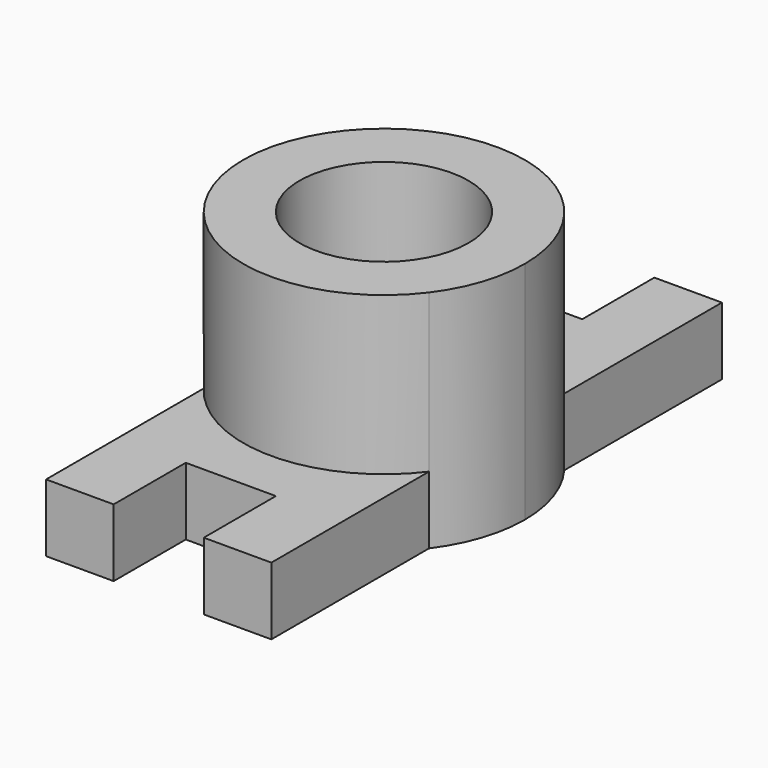
from build123d import *

# Parameters (mm, degrees)
F0_R     = 15
F1_DEPTH = 40
F2_DEPTH = 12


with BuildPart() as f1:
    # F0 (on Top) → F1 (new body)
    with BuildSketch(Plane.XY):
        with BuildLine():
            ThreePointArc((-23.643522, 45.745022), (-28.643522, 30.745022), (-23.643522, 15.745022))
            ThreePointArc((-23.643522, 15.745022), (-3.643522, 5.745022), (16.356478, 15.745022))
            ThreePointArc((16.356478, 15.745022), (20.07356, 22.839328), (21.356478, 30.745022))
            ThreePointArc((21.356478, 30.745022), (20.07356, 38.650717), (16.356478, 45.745022))
            ThreePointArc((16.356478, 45.745022), (-3.643522, 55.745022), (-23.643522, 45.745022))
        make_face()
        with Locations((-3.643522, 30.745022)):
            Circle(F0_R, mode=Mode.SUBTRACT)
    extrude(amount=F1_DEPTH)

    # F0 (on Top) → F2 (join)
    with BuildSketch(Plane.XY):
        with BuildLine():
            Line((-23.643522, 15.745022), (-23.643522, -19.254978))
            Line((-23.643522, -19.254978), (-11.643522, -19.254978))
            Line((-11.643522, -19.254978), (-11.643522, -3.254978))
            Line((-11.643522, -3.254978), (4.356478, -3.254978))
            Line((4.356478, -3.254978), (4.356478, -19.254978))
            Line((4.356478, -19.254978), (16.356478, -19.254978))
            Line((16.356478, -19.254978), (16.356478, 15.745022))
            ThreePointArc((16.356478, 15.745022), (-3.643522, 5.745022), (-23.643522, 15.745022))
        make_face()
        with BuildLine():
            Line((-23.643522, 80.745022), (-23.643522, 45.745022))
            ThreePointArc((-23.643522, 45.745022), (-3.643522, 55.745022), (16.356478, 45.745022))
            Line((16.356478, 45.745022), (16.356478, 80.745022))
            Line((16.356478, 80.745022), (4.356478, 80.745022))
            Line((4.356478, 80.745022), (4.356478, 64.745022))
            Line((4.356478, 64.745022), (-11.643522, 64.745022))
            Line((-11.643522, 64.745022), (-11.643522, 80.745022))
            Line((-11.643522, 80.745022), (-23.643522, 80.745022))
        make_face()
    extrude(amount=F2_DEPTH)


solid = f1.part
